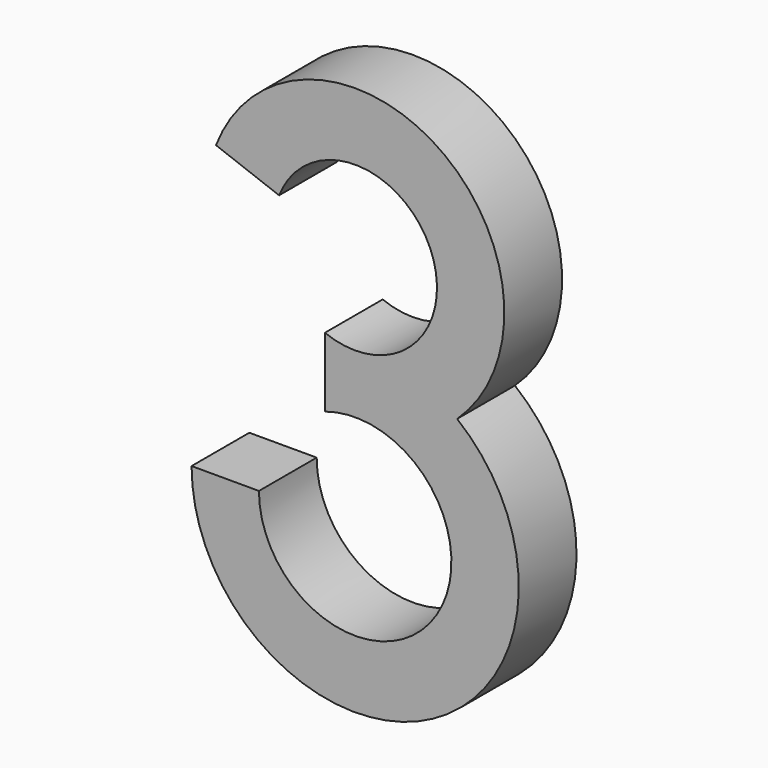
from build123d import *

# Parameters (mm, degrees)
F1_DEPTH = 15


with BuildPart() as f1:
    # F0 (on Front) → F1 (new body)
    with BuildSketch(Plane.XZ):
        with BuildLine():
            ThreePointArc((-33.999998, -49.199556), (14.750168, -79.844601), (21.193158, -22.624103))
            ThreePointArc((21.193158, -22.624103), (17.322013, 25.708907), (-28.92706, 11.145636))
            Line((-28.92706, 11.145636), (-15.814251, 6.237745))
            ThreePointArc((-15.814251, 6.237745), (15.602794, 6.749283), (-6.282997, -15.796327))
            Line((-6.282997, -15.796327), (-6.282997, -30.223286))
            ThreePointArc((-6.282997, -30.223286), (16.208752, -60.927254), (-19.999997, -49.199556))
            Line((-19.999997, -49.199556), (-33.999998, -49.199556))
        make_face()
    extrude(amount=F1_DEPTH)


solid = f1.part
